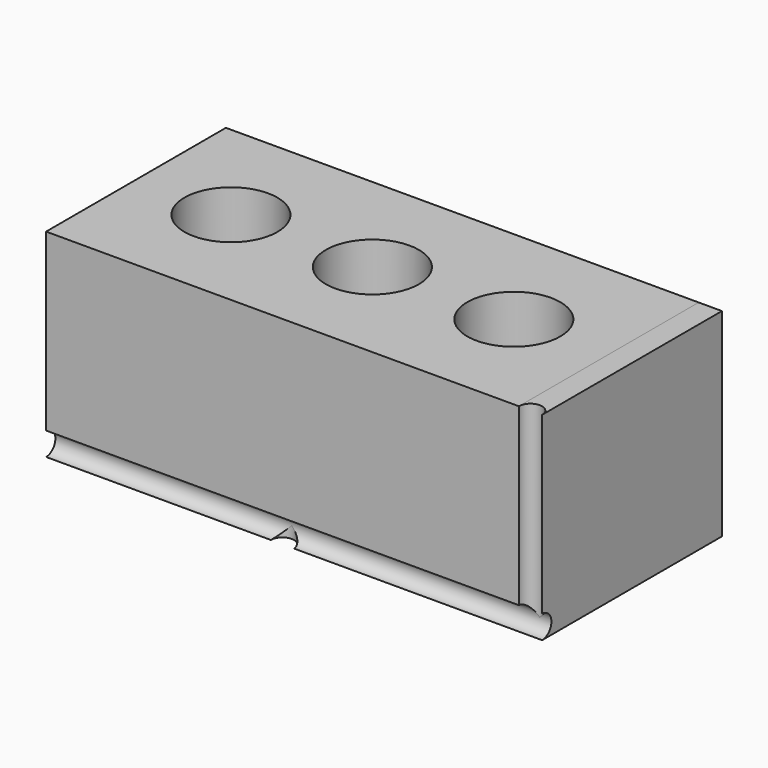
from build123d import *

# Parameters (mm, degrees)
F0_W          = 193.675
F0_H          = 71.755
F1_DEPTH      = 92.075
F2_R          = 19.05
F3_DEPTH      = 71.755
F3_DEPTH_BACK = 25.4
F5_DEPTH      = 92.075
F6_R          = 4.7625
F7_DEPTH      = 76.5175
F8_R          = 4.7625
F9_DEPTH      = 203.2
F10_R         = 4.7625
F11_DEPTH     = 4.7625


with BuildPart() as f1:
    # F0 (on Front) → F1 (new body)
    with BuildSketch(Plane.XZ):
        with Locations((50.3860423341, -3.3288239453)):
            Rectangle(F0_W, F0_H)
    extrude(amount=F1_DEPTH)

    # F2 (on face) → F3 (cut, two sides)
    with BuildSketch(Plane.XY.offset(32.5486760547)) as f3_sk:
        with Locations((-7.5577076659, -46.0375)):
            Circle(F2_R)
        with BuildLine():
            Line((50.3860423341, -65.0875), (50.3860423341, -26.9875))
            ThreePointArc((50.3860423341, -26.9875), (31.3360423341, -46.0375), (50.3860423341, -65.0875))
        make_face()
        with BuildLine():
            ThreePointArc((50.3860423341, -65.0875), (63.8564265157, -59.5078841816), (69.4360423341, -46.0375))
            ThreePointArc((69.4360423341, -46.0375), (63.8564265157, -32.5671158184), (50.3860423341, -26.9875))
            Line((50.3860423341, -26.9875), (50.3860423341, -65.0875))
        make_face()
        with BuildLine():
            Line((127.3797923341, -46.0375), (89.2797923341, -46.0375))
            ThreePointArc((89.2797923341, -46.0375), (108.3297923341, -65.0875), (127.3797923341, -46.0375))
        make_face()
        with BuildLine():
            ThreePointArc((127.3797923341, -46.0375), (108.3297923341, -26.9875), (89.2797923341, -46.0375))
            Line((89.2797923341, -46.0375), (127.3797923341, -46.0375))
        make_face()
    extrude(amount=-F3_DEPTH, mode=Mode.SUBTRACT)
    extrude(f3_sk.sketch, amount=F3_DEPTH_BACK, mode=Mode.SUBTRACT)


with BuildPart() as f5:
    # F4 (on face) → F5 (new body)
    with BuildSketch(Plane.XZ.offset(92.075)):
        Polygon((156.7485423341, 32.5486760547), (147.2235423341, 32.5486760547), (147.2235423341, -39.2063239453), (-46.4514576659, -39.2063239453), (-46.4514576659, -48.7313239453), (156.7485423341, -48.7313239453), align=None)
    extrude(amount=-F5_DEPTH)

    # F6 (on face) → F7 (cut)
    with BuildSketch(Plane.XY.offset(32.5486760547)):
        with Locations((151.9860423341, -92.075)):
            Circle(F6_R)
    extrude(amount=-F7_DEPTH, mode=Mode.SUBTRACT)

    # F8 (on face) → F9 (cut)
    with BuildSketch(Plane(origin=(-46.4514576659, 0, 0), x_dir=(0, -1, 0), z_dir=(-1, 0, 0))):
        with Locations((92.075, -43.9688239453)):
            Circle(F8_R)
    extrude(amount=-F9_DEPTH, mode=Mode.SUBTRACT)

    # F10 (on face) → F11 (cut)
    with BuildSketch(Plane(origin=(0, 0, -48.7313239453), x_dir=(1, 0, 0), z_dir=(0, 0, -1))):
        with Locations((50.3860423341, 92.075)):
            Circle(F10_R)
    extrude(amount=-F11_DEPTH, mode=Mode.SUBTRACT)


solid = Compound([f1.part, f5.part])
